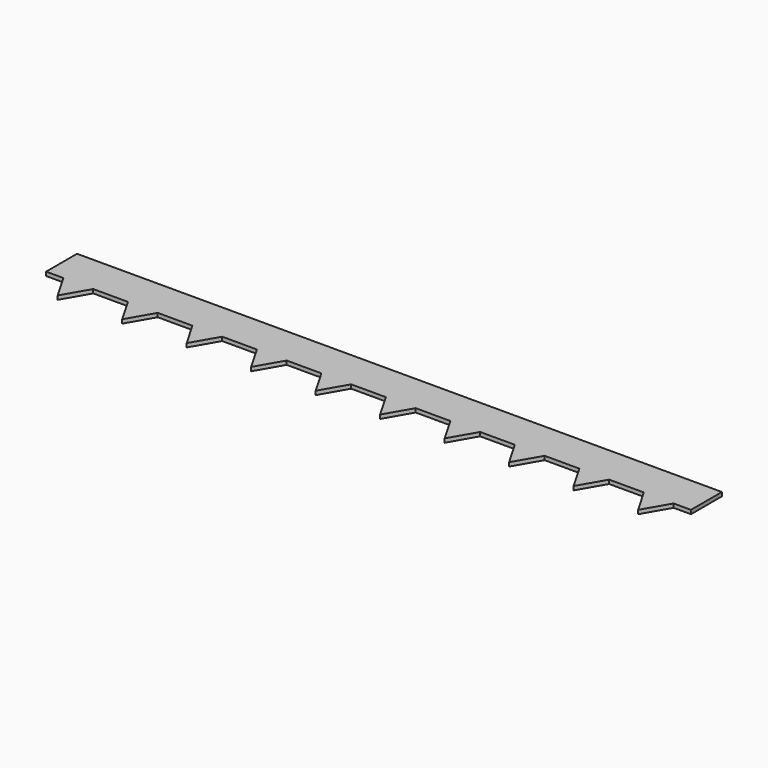
from build123d import *

# Parameters (mm, degrees)
F1_DEPTH = 6


with BuildPart() as f1:
    # F0 (on Top) → F1 (new body)
    with BuildSketch(Plane.XY):
        Polygon((1000, 0), (0, 0), (0, -60), (26.905989, -60), (73.094011, -60), (126.905989, -60), (173.094011, -60), (226.905989, -60), (273.094011, -60), (326.905989, -60), (373.094011, -60), (426.905989, -60), (473.094011, -60), (526.905989, -60), (573.094011, -60), (626.905989, -60), (673.094011, -60), (726.905989, -60), (773.094011, -60), (826.905989, -60), (873.094011, -60), (926.905989, -60), (973.094011, -60), (1000, -60), align=None)
        Polygon((73.094011, -60), (26.905989, -60), (50, -100), align=None)
        Polygon((950, -100), (973.094011, -60), (926.905989, -60), align=None)
        Polygon((173.094011, -60), (126.905989, -60), (150, -100), align=None)
        Polygon((850, -100), (873.094011, -60), (826.905989, -60), align=None)
        Polygon((273.094011, -60), (226.905989, -60), (250, -100), align=None)
        Polygon((750, -100), (773.094011, -60), (726.905989, -60), align=None)
        Polygon((373.094011, -60), (326.905989, -60), (350, -100), align=None)
        Polygon((650, -100), (673.094011, -60), (626.905989, -60), align=None)
        Polygon((473.094011, -60), (426.905989, -60), (450, -100), align=None)
        Polygon((550, -100), (573.094011, -60), (526.905989, -60), align=None)
    extrude(amount=F1_DEPTH)


solid = f1.part
